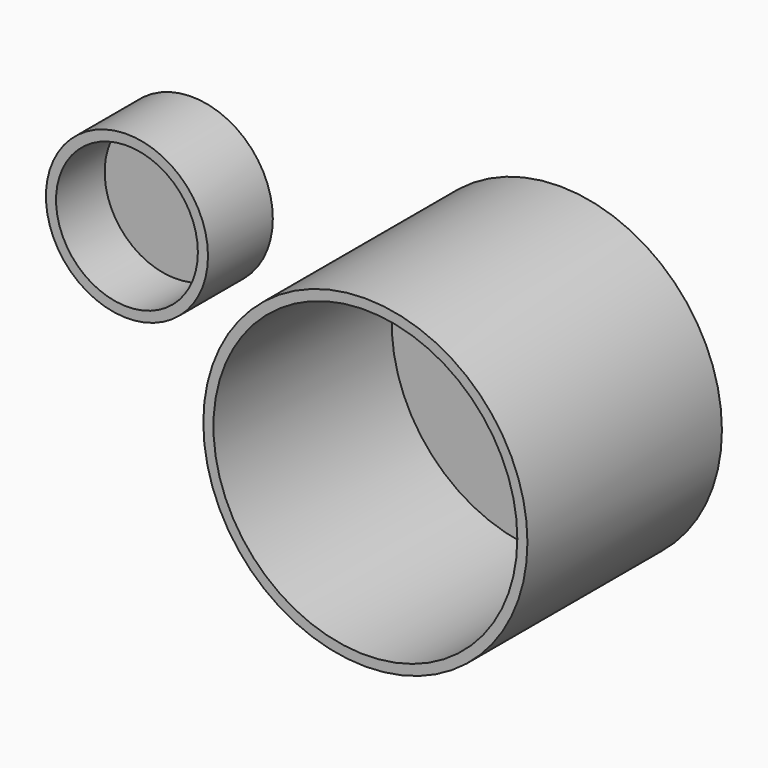
from build123d import *

# Parameters (mm, degrees)
F0_R     = 25.4
F0_R_2   = 22.225
F1_DEPTH = 25.4
F0_R_3   = 50.8
F0_R_4   = 47.625
F2_DEPTH = 76.2
F3_DEPTH = 6.35
F4_DEPTH = 6.35


with BuildPart() as f1:
    # F0 (on Front) → F1 (new body)
    with BuildSketch(Plane.XZ):
        with Locations((-115.371361, 12.565194)):
            Circle(F0_R)
        with Locations((-115.371361, 12.565194)):
            Circle(F0_R_2, mode=Mode.SUBTRACT)
    extrude(amount=F1_DEPTH)

    # F0 (on Front) → F3 (join)
    with BuildSketch(Plane.XZ):
        with Locations((-115.371361, 12.565194)):
            Circle(F0_R_2)
    extrude(amount=F3_DEPTH)


with BuildPart() as f2:
    # F0 (on Front) → F2 (new body)
    with BuildSketch(Plane.XZ):
        Circle(F0_R_3)
        Circle(F0_R_4, mode=Mode.SUBTRACT)
    extrude(amount=F2_DEPTH)

    # F0 (on Front) → F4 (join)
    with BuildSketch(Plane.XZ):
        Circle(F0_R_4)
    extrude(amount=F4_DEPTH)


solid = Compound([f1.part, f2.part])
